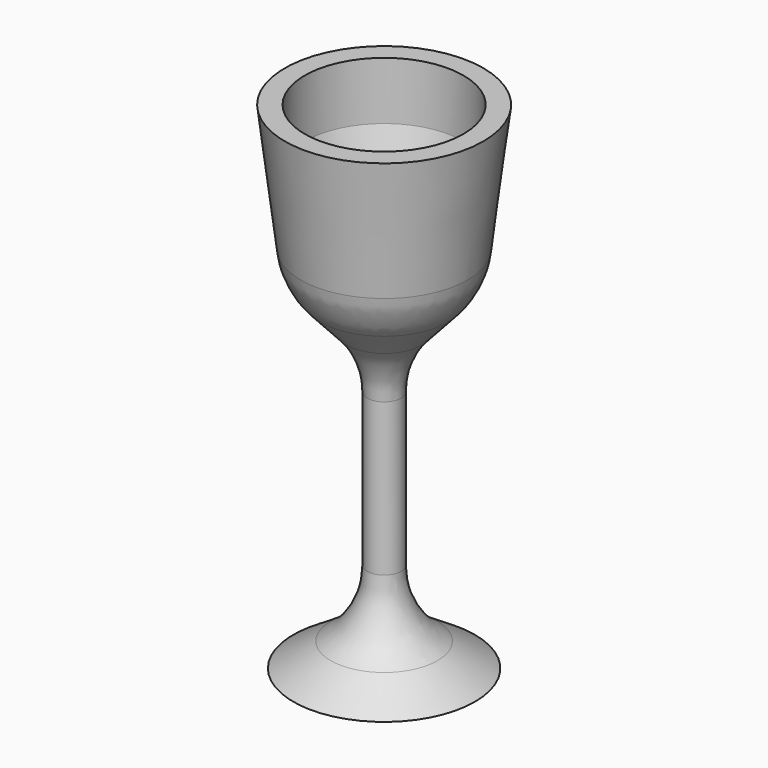
from build123d import *

# Parameters (mm, degrees)
F2_R = 80


with BuildPart() as f1:
    # F0 (on Front) → F1 (revolve)
    with BuildSketch(Plane.XZ):
        Polygon((100, 500), (79.954505, 500), (79.954505, 441.663295), (49.168155, 337.759376), (0, 303.124756), (0, 0), (91.499396, 0), (17.099047, 47.854599), (17.099047, 276.055804), (81.237279, 346.738726), align=None)
    revolve(axis=Axis((0, 0, 151.562378), (0, 0, 1)))

    # F2
    f2_edges = [f1.edges().sort_by_distance(p)[0] for p in [
        (-81.237279, 0, 346.738726),
        (-17.099047, 0, 276.055804),
        (-17.099047, 0, 47.854599),
    ]]
    fillet(f2_edges, radius=F2_R)


solid = f1.part
